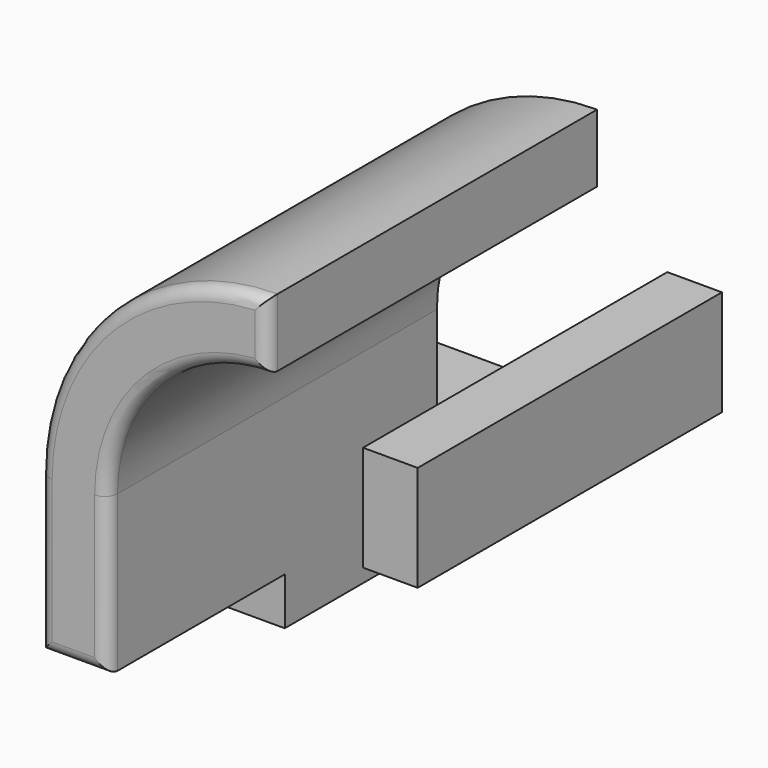
from build123d import *

# Parameters (mm, degrees)
F0_W     = 21.900531
F0_H     = 42.312413
F1_DEPTH = 76.2
F2_DEPTH = 165.1
F3_R     = 5.08


with BuildPart() as f1:
    # F0 (on Front) → F1 (new body, symmetric)
    with BuildSketch(Plane.XZ):
        Polygon((41.275, -9.525), (41.275, 9.525), (14.097002, 9.525), (-41.275, 9.525), (-41.275, -9.525), align=None)
        with Locations((83.587408, 43.232253)):
            Rectangle(F0_W, F0_H)
    extrude(amount=F1_DEPTH, both=True)

    # F0 (on Front) → F2 (join)
    with BuildSketch(Plane.XZ):
        with BuildLine():
            Line((14.097002, 9.525), (41.275, 9.525))
            Line((41.275, 9.525), (41.275, 72.007786))
            ThreePointArc((41.275, 72.007786), (60.082535, 117.413191), (105.487939, 136.220725))
            Line((105.487939, 136.220725), (105.487939, 163.398723))
            ThreePointArc((105.487939, 163.398723), (40.864788, 136.630937), (14.097002, 72.007786))
            Line((14.097002, 72.007786), (14.097002, 9.525))
        make_face()
    extrude(amount=F2_DEPTH)

    # F3
    f3_edges = [f1.edges().sort_by_distance(p)[0] for p in [
        (41.275, -165.1, 40.766393),
        (14.097002, -165.1, 40.766393),
        (27.686001, -165.1, 9.525),
        (60.082535, -165.1, 117.413191),
        (105.487939, -165.1, 149.809724),
        (40.864788, -165.1, 136.630937),
    ]]
    fillet(f3_edges, radius=F3_R)


solid = f1.part
